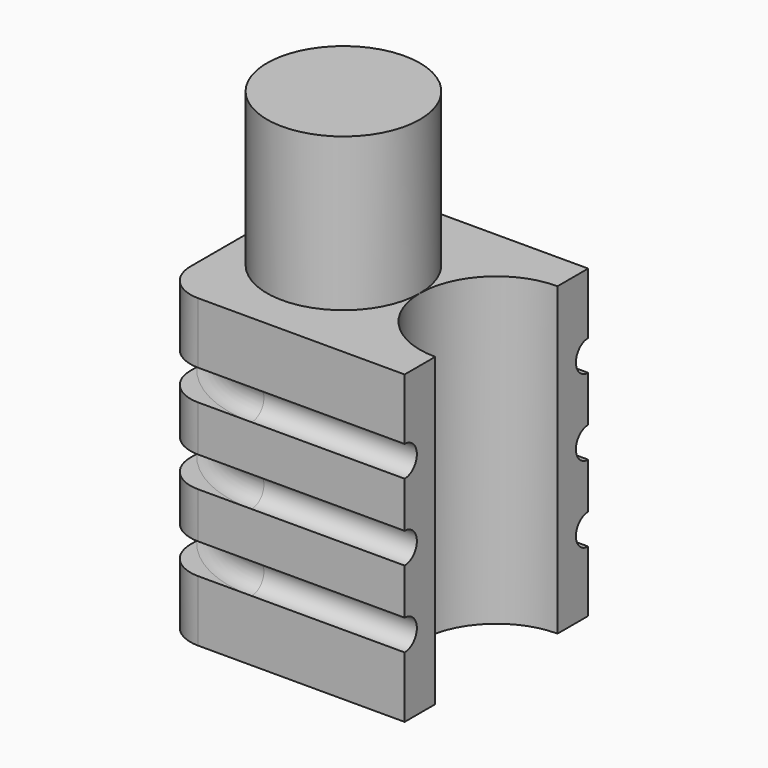
from build123d import *

# Parameters (mm, degrees)
PAD_DEPTH            = 40
SKETCH001_R          = 10
PAD001_DEPTH         = 20
SKETCH002_R          = 2
POCKET_DEPTH         = 32.001
SKETCH003_R          = 2
POCKET001_DEPTH      = 15.001
POCKET001_DEPTH_BACK = -15.001
GROOVE_ANGLE         = -180


with BuildPart() as part:
    # Sketch → Pad (new body)
    with BuildSketch(Plane.XY):
        with BuildLine():
            ThreePointArc((0, 10), (-10, 0), (0, -10))
            Line((0, -10), (0, -15))
            Line((-27, -15), (0, -15))
            ThreePointArc((-32, -10), (-30.535534, -13.535534), (-27, -15))
            Line((-32, 10), (-32, -10))
            ThreePointArc((-27, 15), (-30.535534, 13.535534), (-32, 10))
            Line((-27, 15), (0, 15))
            Line((0, 15), (0, 10))
        make_face()
    extrude(amount=PAD_DEPTH)

    # Sketch001 → Pad001 (join)
    with BuildSketch(Plane.XY.offset(40)):
        with Locations((-20, 0)):
            Circle(SKETCH001_R)
    extrude(amount=PAD001_DEPTH)

    # Sketch002 → Pocket (cut, through all)
    with BuildSketch(Plane.YZ):
        with Locations((-15, 20)):
            Circle(SKETCH002_R)
        with Locations((15, 20)):
            Circle(SKETCH002_R)
        with Locations((-15, 30)):
            Circle(SKETCH002_R)
        with Locations((-15, 10)):
            Circle(SKETCH002_R)
        with Locations((15, 30)):
            Circle(SKETCH002_R)
        with Locations((15, 10)):
            Circle(SKETCH002_R)
    extrude(amount=-POCKET_DEPTH, mode=Mode.SUBTRACT)

    # Sketch003 → Pocket001 (cut, two sides)
    with BuildSketch(Plane.XZ) as pocket001_sk:
        with Locations((-32, 20)):
            Circle(SKETCH003_R)
        with Locations((-32, 30)):
            Circle(SKETCH003_R)
        with Locations((-32, 10)):
            Circle(SKETCH003_R)
    extrude(amount=-POCKET001_DEPTH, mode=Mode.SUBTRACT)
    extrude(pocket001_sk.sketch, amount=-POCKET001_DEPTH_BACK, mode=Mode.SUBTRACT)

    # Sketch004 → Groove (revolve, cut)
    with BuildSketch(Plane.YZ.offset(-20)):
        with BuildLine():
            ThreePointArc((-15, 8), (-13, 10), (-15, 12))
            Line((-15, 12), (-25, 12))
            Line((-25, 12), (-25, 8))
            Line((-25, 8), (-15, 8))
        make_face()
        with BuildLine():
            ThreePointArc((-15, 28), (-13, 30), (-15, 32))
            Line((-25, 32), (-15, 32))
            Line((-25, 32), (-25, 28))
            Line((-25, 28), (-15, 28))
        make_face()
        with BuildLine():
            ThreePointArc((-15, 18), (-13, 20), (-15, 22))
            Line((-15, 22), (-25, 22))
            Line((-25, 22), (-25, 18))
            Line((-25, 18), (-15, 18))
        make_face()
    revolve(axis=Axis((-20, 0, 0), (0, 0, 1)), revolution_arc=GROOVE_ANGLE, mode=Mode.SUBTRACT)


solid = part.part
